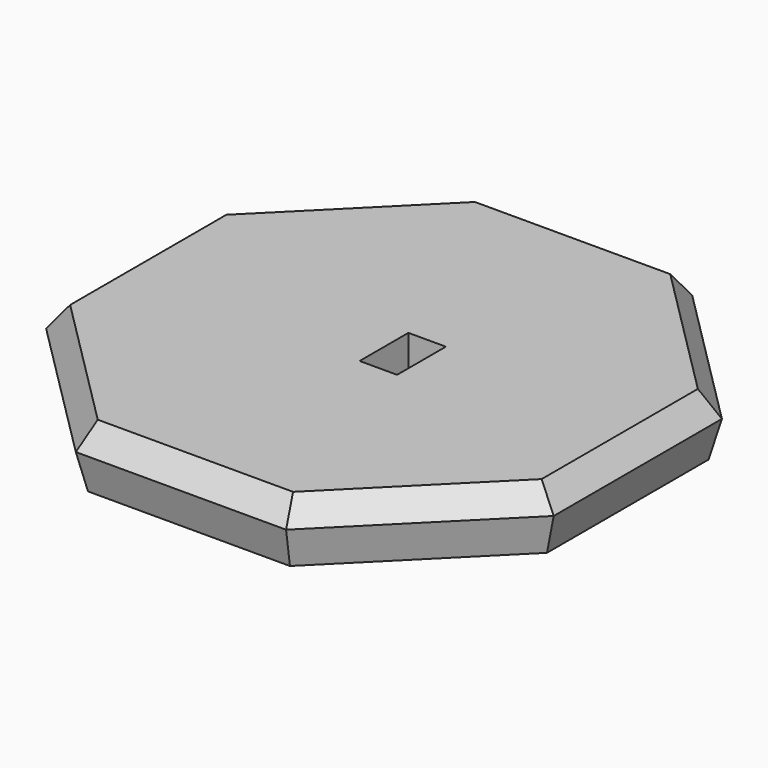
from build123d import *

# Parameters (mm, degrees)
F1_DEPTH = 5
F1_TAPER = -15
F2_SIZE  = 2
F3_W     = 3.075
F3_H     = 5
F4_DEPTH = 5


with BuildPart() as f1:
    # F0 (on Top) → F1 (new body)
    with BuildSketch(Plane.XY):
        Polygon((-20, 8.2842712475), (-20, -8.2842712475), (-8.2842712475, -20), (8.2842712475, -20), (20, -8.2842712475), (20, 8.2842712475), (8.2842712475, 20), (-8.2842712475, 20), align=None)
    extrude(amount=F1_DEPTH, taper=F1_TAPER)

    # F2
    f2_edges = [f1.edges().sort_by_distance(p)[0] for p in [
        (-15.089479, -15.089479, 5),
        (0, -21.339746, 5),
        (15.089479, -15.089479, 5),
        (-21.339746, 0, 5),
        (-15.089479, 15.089479, 5),
        (21.339746, 0, 5),
        (15.089479, 15.089479, 5),
        (0, 21.339746, 5),
    ]]
    chamfer(f2_edges, length=F2_SIZE)

    # F3 (on face) → F4 (cut)
    with BuildSketch(Plane.XY.offset(5)):
        with Locations((1.5375, 0)):
            Rectangle(F3_W, F3_H)
    extrude(amount=-F4_DEPTH, mode=Mode.SUBTRACT)


solid = f1.part
